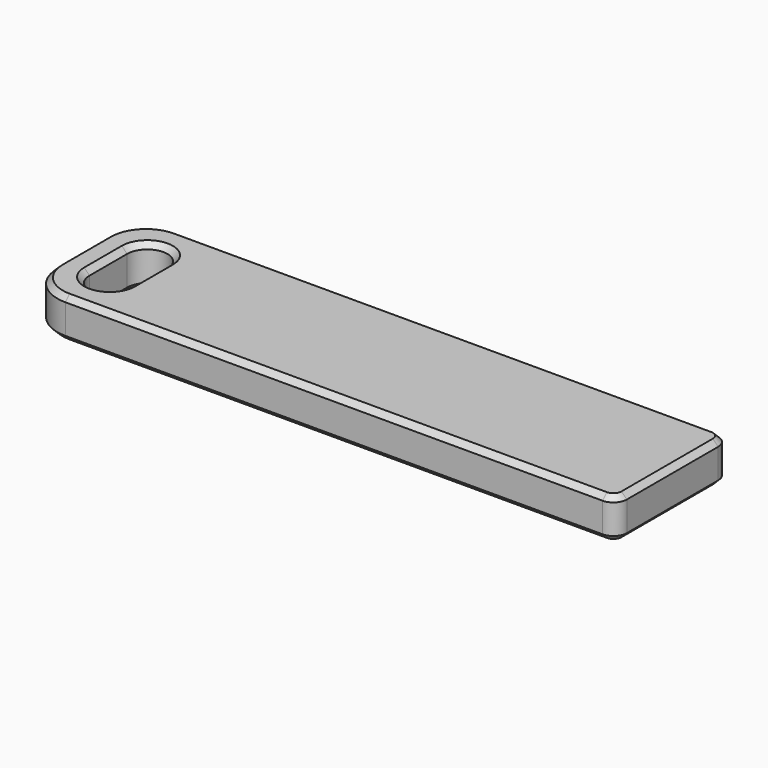
from build123d import *

# Parameters (mm, degrees)
BOX002_W          = 3
BOX002_H          = 3.5
BOX002_DEPTH      = 10
CYLINDER005_R     = 1.5
CYLINDER005_DEPTH = 10
CYLINDER004_R     = 1.5
CYLINDER004_DEPTH = 10
BOX001_W          = 44
BOX001_H          = 10.5
BOX001_DEPTH      = 3
FILLET001_R       = 1
FILLET002_R       = 3
CHAMFER001_SIZE   = 0.4


with BuildPart() as cube002:
    # Box002 → Box002 (new body)
    with BuildSketch(Plane(origin=(-24, 13.5, 0), x_dir=(1, 0, 0), z_dir=(0, 0, 1))):
        with Locations((1.5, 1.75)):
            Rectangle(BOX002_W, BOX002_H)
    extrude(amount=BOX002_DEPTH)


with BuildPart() as cylinder005:
    # Cylinder005 → Cylinder005 (new body)
    with BuildSketch(Plane(origin=(-22.5, 13.5, 0), x_dir=(1, 0, 0), z_dir=(0, 0, 1))):
        Circle(CYLINDER005_R)
    extrude(amount=CYLINDER005_DEPTH)


with BuildPart() as fusion001:
    # Cylinder004 → Cylinder004 (new body)
    with BuildSketch(Plane(origin=(-22.5, 17, 0), x_dir=(1, 0, 0), z_dir=(0, 0, 1))):
        Circle(CYLINDER004_R)
    extrude(amount=CYLINDER004_DEPTH)

    # Fusion001: union Cube002, Cylinder005
    add(cube002.part)
    add(cylinder005.part)


with BuildPart() as fusion001_1:
    # Fusion001 placement: moved
    add(fusion001.part.moved(Location((-1, 0, 0))))


with BuildPart() as chamfer001:
    # Box001 → Box001 (new body)
    with BuildSketch(Plane(origin=(-27, 10, 0), x_dir=(1, 0, 0), z_dir=(0, 0, 1))):
        with Locations((22, 5.25)):
            Rectangle(BOX001_W, BOX001_H)
    extrude(amount=BOX001_DEPTH)

    # Cut001: cut Fusion001
    add(fusion001_1.part, mode=Mode.SUBTRACT)

    # Fillet001
    fillet001_edges = [chamfer001.edges().sort_by_distance(p)[0] for p in [
        (17, 10, 1.5),
        (17, 20.5, 1.5),
    ]]
    fillet(fillet001_edges, radius=FILLET001_R)

    # Fillet002
    fillet002_edges = [chamfer001.edges().sort_by_distance(p)[0] for p in [
        (-27, 10, 1.5),
        (-27, 20.5, 1.5),
    ]]
    fillet(fillet002_edges, radius=FILLET002_R)

    # Chamfer001
    chamfer001_edges = [chamfer001.edges().sort_by_distance(p)[0] for p in [
        (-4, 10, 0),
        (-4, 10, 3),
        (-4, 20.5, 0),
        (-26.12132, 19.62132, 0),
        (16.707107, 20.207107, 0),
        (-27, 15.25, 0),
        (17, 15.25, 0),
        (-26.12132, 10.87868, 0),
        (16.707107, 10.292893, 0),
        (-25, 15.25, 0),
        (-23.5, 12, 0),
        (-22, 15.25, 0),
        (-23.5, 18.5, 0),
        (-26.12132, 10.87868, 3),
        (16.707107, 10.292893, 3),
        (-4, 20.5, 3),
        (-26.12132, 19.62132, 3),
        (16.707107, 20.207107, 3),
        (-27, 15.25, 3),
        (17, 15.25, 3),
        (-22, 15.25, 3),
        (-23.5, 18.5, 3),
        (-25, 15.25, 3),
        (-23.5, 12, 3),
    ]]
    chamfer(chamfer001_edges, length=CHAMFER001_SIZE)


solid = chamfer001.part
